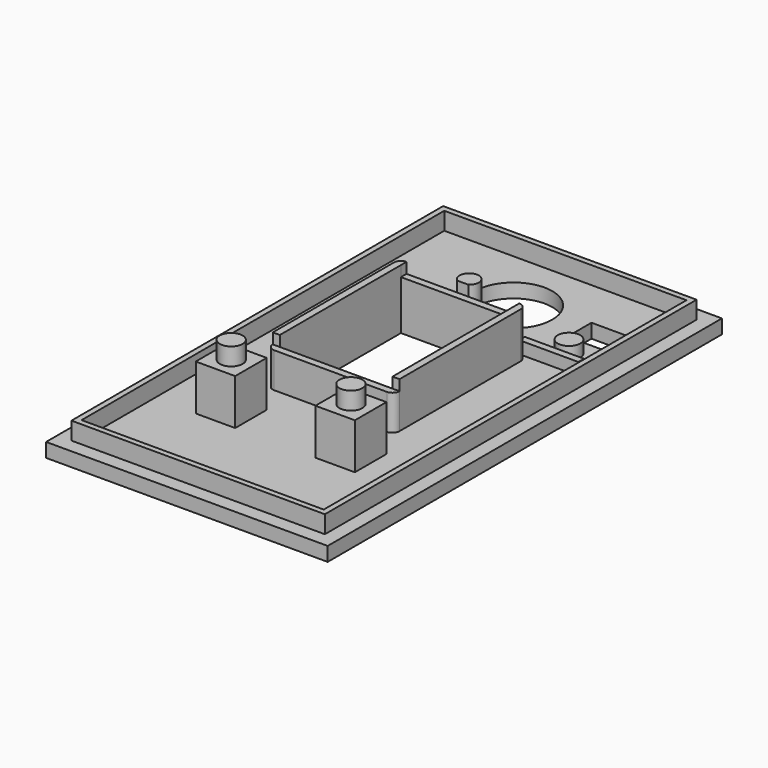
from build123d import *

# Parameters (mm, degrees)
SKETCH_W        = 40
SKETCH_H        = 70
SKETCH_R        = 5.5
SKETCH_W_2      = 16
SKETCH_H_2      = 21.5
PAD_DEPTH       = 2
SKETCH001_W     = 5.6
SKETCH001_H     = 5.6
SKETCH001_W_2   = 16
SKETCH001_H_2   = 21.5
PAD001_DEPTH    = 6.5
SKETCH002_R     = 1.625
PAD002_DEPTH    = 2.5
SKETCH003_W     = 16.000008
SKETCH003_H     = 1
SKETCH003_W_2   = 18
POCKET_DEPTH    = 1.5
SKETCH004_W     = 5.3
SKETCH004_H     = 4.3
POCKET001_DEPTH = 2.001
SKETCH005_R     = 1.6
SKETCH005_W     = 8.4
SKETCH005_H     = 1
PAD003_DEPTH    = 1.75
SKETCH006_W     = 36
SKETCH006_H     = 66
SKETCH006_W_2   = 34.4
SKETCH006_H_2   = 64.4
PAD004_DEPTH    = 2.5


with BuildPart() as part:
    # Sketch → Pad (new body)
    with BuildSketch(Plane.XY):
        with Locations((0, -2.25)):
            Rectangle(SKETCH_W, SKETCH_H)
        with Locations((0, 20.75)):
            Circle(SKETCH_R, mode=Mode.SUBTRACT)
        Rectangle(SKETCH_W_2, SKETCH_H_2, mode=Mode.SUBTRACT)
    extrude(amount=PAD_DEPTH)

    # Sketch001 (on Face11 of Pad) → Pad001 (join)
    with BuildSketch(Plane.XY.offset(2)):
        with Locations((-8.5, -18.75)):
            Rectangle(SKETCH001_W, SKETCH001_H)
        with Locations((8.5, -18.75)):
            Rectangle(SKETCH001_W, SKETCH001_H)
        with BuildLine():
            Line((-8, -11.75), (8, -11.75))
            ThreePointArc((9, -10.75), (8.707107, -11.457107), (8, -11.75))
            Line((9, -10.75), (9, 10.75))
            ThreePointArc((8, 11.75), (8.707107, 11.457107), (9, 10.75))
            Line((8, 11.75), (0.8, 11.75))
            ThreePointArc((0.8, 11.75), (0, 14.243313), (-0.8, 11.75))
            Line((-0.8, 11.75), (-8.000008, 11.75))
            ThreePointArc((-9, 10.75), (-8.707109, 11.457104), (-8.000008, 11.75))
            Line((-9, 10.75), (-9, -10.75))
            ThreePointArc((-8, -11.75), (-8.707107, -11.457107), (-9, -10.75))
        make_face()
        Rectangle(SKETCH001_W_2, SKETCH001_H_2, mode=Mode.SUBTRACT)
    extrude(amount=PAD001_DEPTH)

    # Sketch002 (on Face34 of Pad001) → Pad002 (join)
    with BuildSketch(Plane.XY.offset(8.5)):
        with Locations((-8.5, -18.75)):
            Circle(SKETCH002_R)
        with Locations((8.5, -18.75)):
            Circle(SKETCH002_R)
    extrude(amount=PAD002_DEPTH)

    # Sketch003 (on Face35 of Pad002) → Pocket (cut)
    with BuildSketch(Plane.XY.offset(8.5)):
        with Locations((-4e-06, 11.25)):
            Rectangle(SKETCH003_W, SKETCH003_H)
        with Locations((0, -11.25)):
            Rectangle(SKETCH003_W_2, SKETCH003_H)
    extrude(amount=-POCKET_DEPTH, mode=Mode.SUBTRACT)

    # Sketch004 (on Face5 of Pocket) → Pocket001 (cut, through all)
    with BuildSketch(Plane.XY.offset(2)):
        with Locations((12, 20.75)):
            Rectangle(SKETCH004_W, SKETCH004_H)
    extrude(amount=-POCKET001_DEPTH, mode=Mode.SUBTRACT)

    # Sketch005 (on Face5 of Pocket001) → Pad003 (join)
    with BuildSketch(Plane.XY.offset(2)):
        with Locations((12, 15.6)):
            Circle(SKETCH005_R)
        with Locations((12, 12.5)):
            Rectangle(SKETCH005_W, SKETCH005_H)
    extrude(amount=PAD003_DEPTH)

    # Sketch006 (on Face5 of Pad003) → Pad004 (join)
    with BuildSketch(Plane.XY.offset(2)):
        with Locations((0, -2.25)):
            Rectangle(SKETCH006_W, SKETCH006_H)
        with Locations((0, -2.25)):
            Rectangle(SKETCH006_W_2, SKETCH006_H_2, mode=Mode.SUBTRACT)
    extrude(amount=PAD004_DEPTH)


solid = part.part
